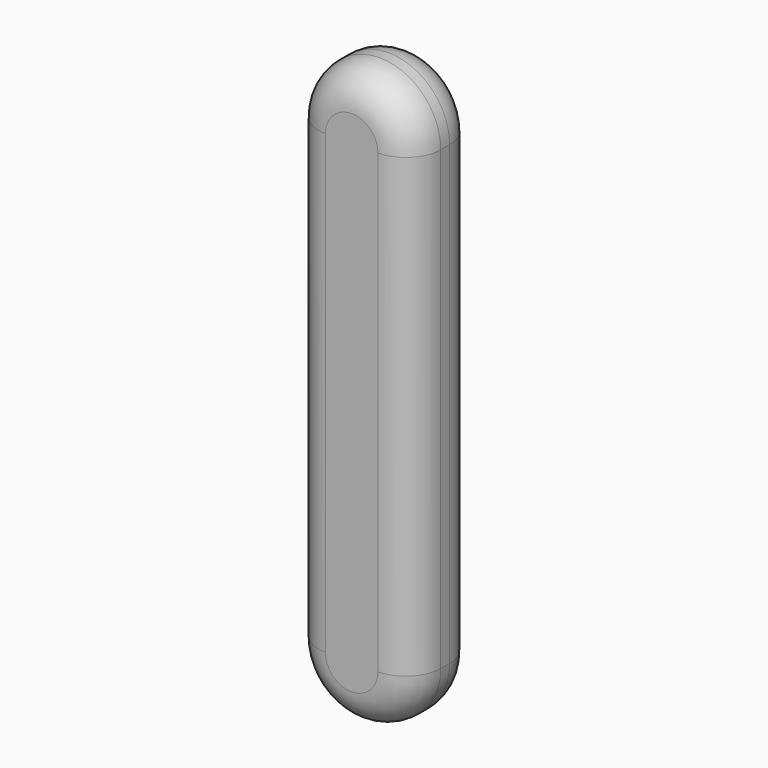
from build123d import *

# Parameters (mm, degrees)
F1_DEPTH = 7.112
F2_R     = 3.0734


with BuildPart() as f1:
    # F0 (on Front) → F1 (new body)
    with BuildSketch(Plane.XZ):
        with BuildLine():
            ThreePointArc((-5.258809, -5.404494), (0.123873, -0.021812), (5.506555, -5.404494))
            Line((5.506555, -5.404494), (5.506555, 1.758267))
            Line((5.506555, 1.758267), (5.506555, 5.966515))
            Line((5.506555, 5.966515), (5.506555, 8.921028))
            ThreePointArc((5.506555, 8.921028), (0.123873, 14.30371), (-5.258809, 8.921028))
            Line((-5.258809, 8.921028), (-5.258809, 2.41463))
            Line((-5.258809, 2.41463), (-5.258809, -5.404494))
        make_face()
        with BuildLine():
            Line((-5.258809, -5.404494), (5.506555, -5.404494))
            ThreePointArc((5.506555, -5.404494), (0.123873, -0.021812), (-5.258809, -5.404494))
        make_face()
        with BuildLine():
            ThreePointArc((-5.258809, -5.404494), (0.123873, -10.787176), (5.506555, -5.404494))
            Line((5.506555, -5.404494), (-5.258809, -5.404494))
        make_face()
        with BuildLine():
            ThreePointArc((-5.258809, -31.284998), (0.123873, -36.66768), (5.506555, -31.284998))
            Line((5.506555, -31.284998), (5.506555, -5.404494))
            ThreePointArc((5.506555, -5.404494), (0.123873, -10.787176), (-5.258809, -5.404494))
            Line((-5.258809, -5.404494), (-5.258809, -12.387301))
            Line((-5.258809, -12.387301), (-5.258809, -31.284998))
        make_face()
    extrude(amount=F1_DEPTH)

    # F2
    f2_edges = [f1.edges().sort_by_distance(p)[0] for p in [
        (5.506555, -7.112, -11.181985),
        (5.506555, 0, -11.181985),
        (-5.258809, 0, -11.181985),
        (-5.258809, -7.112, -11.181985),
        (0.123873, 0, 14.30371),
        (0.123873, -7.112, 14.30371),
        (0.123873, 0, -36.66768),
        (0.123873, -7.112, -36.66768),
    ]]
    fillet(f2_edges, radius=F2_R)


solid = f1.part
